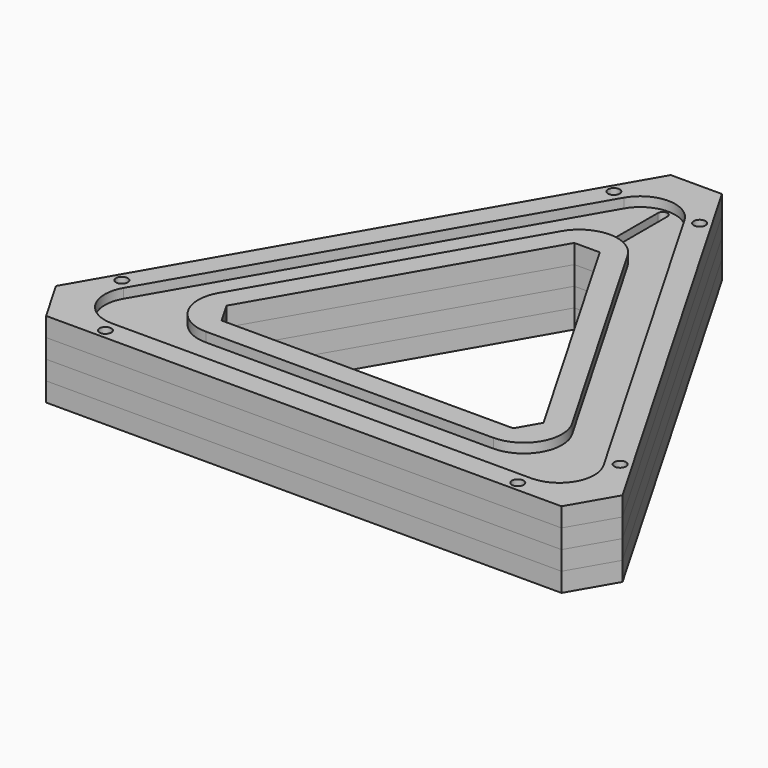
from build123d import *

# Parameters (mm, degrees)
BOX_BOTTOM_HALF_1_W     = 180.25254
BOX_BOTTOM_HALF_1_H     = 156.371228
BOX_BOTTOM_HALF_1_DEPTH = 7
BOX_BOTTOM_HALF_0_W     = 180.25254
BOX_BOTTOM_HALF_0_H     = 156.371228
BOX_BOTTOM_HALF_0_DEPTH = 13
PAD_DEPTH               = 24
POCKET_DEPTH            = 3
SKETCH002_W             = 70
SKETCH002_H             = 18.5
POCKET001_DEPTH         = 18
POLARPATTERN_COUNT      = 3
POCKET002_DEPTH         = 6
CHAMFER_SIZE            = 8
FILLET_R                = 13
FILLET001_R             = 11
CHAMFER001_SIZE         = 16.1
FILLET002_R             = 11
FILLET003_R             = 12
POCKET003_DEPTH         = 6
POCKET004_DEPTH         = 18
POCKET005_DEPTH         = 21.001
SKETCH012_R             = 1.85
POCKET011_DEPTH         = 498.049286
POLARPATTERN001_COUNT   = 3
BOX_BOTTOM_HALF_2_W     = 180.25254
BOX_BOTTOM_HALF_2_H     = 156.371228
BOX_BOTTOM_HALF_2_DEPTH = 7


with BuildPart() as box_bottom_half_1_body:
    # box_bottom_half_1 → box_bottom_half_1 (new body)
    with BuildSketch(Plane(origin=(-90.12627, -57.104746, -1), x_dir=(1, 0, 0), z_dir=(0, 0, 1))):
        with Locations((90.12627, 78.185614)):
            Rectangle(BOX_BOTTOM_HALF_1_W, BOX_BOTTOM_HALF_1_H)
    extrude(amount=BOX_BOTTOM_HALF_1_DEPTH)


with BuildPart() as box_bottom_half_0_body:
    # box_bottom_half_0 → box_bottom_half_0 (new body)
    with BuildSketch(Plane(origin=(-90.12627, -57.104746, -1), x_dir=(1, 0, 0), z_dir=(0, 0, 1))):
        with Locations((90.12627, 78.185614)):
            Rectangle(BOX_BOTTOM_HALF_0_W, BOX_BOTTOM_HALF_0_H)
    extrude(amount=BOX_BOTTOM_HALF_0_DEPTH)


with BuildPart() as body:
    # Sketch → Pad (new body)
    with BuildSketch(Plane.XY):
        Polygon((0, 112.209492), (-97.17627, -56.104746), (97.17627, -56.104746), align=None)
        Polygon((0, 62.209492), (-53.875, -31.104746), (53.875, -31.104746), align=None, mode=Mode.SUBTRACT)
    extrude(amount=PAD_DEPTH)

    # Sketch001 (on Face8 of Pad) → Pocket (cut)
    with BuildSketch(Plane.XY.offset(24)):
        Polygon((0, 98.209492), (-85.051915, -49.104746), (85.051915, -49.104746), align=None)
        Polygon((0, 76.209492), (-65.999356, -38.104746), (65.999356, -38.104746), align=None, mode=Mode.SUBTRACT)
    extrude(amount=-POCKET_DEPTH, mode=Mode.SUBTRACT)

    # Sketch002 (on Face4 of Pocket) → Pocket001 (cut)
    with BuildSketch(Plane(origin=(0, 0, 0), x_dir=(1, 0, 0), z_dir=(0, 0, -1))):
        with Locations((0, 43.604746)):
            Rectangle(SKETCH002_W, SKETCH002_H)
    pocket001 = extrude(amount=-POCKET001_DEPTH, mode=Mode.SUBTRACT)

    # PolarPattern: Pocket001 ×3 about axis
    polarpattern_axis = Axis((0, 0, 0), (0, 0, -1))
    for i in range(1, POLARPATTERN_COUNT):
        add(pocket001.rotate(polarpattern_axis, i * 360 / POLARPATTERN_COUNT), mode=Mode.SUBTRACT)

    # Sketch003 (on Face4 of PolarPattern) → Pocket002 (cut)
    with BuildSketch(Plane(origin=(0, 0, 0), x_dir=(1, 0, 0), z_dir=(0, 0, -1))):
        Polygon((0, -100.209492), (86.783965, 50.104746), (-86.783965, 50.104746), align=None)
        Polygon((0, -74.209492), (64.267305, 37.104746), (-64.267305, 37.104746), align=None, mode=Mode.SUBTRACT)
    extrude(amount=-POCKET002_DEPTH, mode=Mode.SUBTRACT)

    # Chamfer
    chamfer_edges = [body.edges().sort_by_distance(p)[0] for p in [
        (-53.875, -31.104746, 12),
        (53.875, -31.104746, 12),
        (0, 62.209492, 12),
    ]]
    chamfer(chamfer_edges, length=CHAMFER_SIZE)

    # Fillet
    fillet_edges = [body.edges().sort_by_distance(p)[0] for p in [
        (0, 100.209492, 3),
        (-86.783965, -50.104746, 3),
        (86.783965, -50.104746, 3),
    ]]
    fillet(fillet_edges, radius=FILLET_R)

    # Fillet001
    fillet001_edges = [body.edges().sort_by_distance(p)[0] for p in [
        (0, 74.209492, 3),
        (64.267305, -37.104746, 3),
        (-64.267305, -37.104746, 3),
    ]]
    fillet(fillet001_edges, radius=FILLET001_R)

    # Chamfer001
    chamfer001_edges = [body.edges().sort_by_distance(p)[0] for p in [
        (97.17627, -56.104746, 12),
        (0, 112.209492, 12),
        (-97.17627, -56.104746, 12),
    ]]
    chamfer(chamfer001_edges, length=CHAMFER001_SIZE)

    # Fillet002
    fillet002_edges = [body.edges().sort_by_distance(p)[0] for p in [
        (0, 98.209492, 22.5),
        (-85.051915, -49.104746, 22.5),
        (85.051915, -49.104746, 22.5),
    ]]
    fillet(fillet002_edges, radius=FILLET002_R)

    # Fillet003
    fillet003_edges = [body.edges().sort_by_distance(p)[0] for p in [
        (65.999356, -38.104746, 22.5),
        (0, 76.209492, 22.5),
        (-65.999356, -38.104746, 22.5),
    ]]
    fillet(fillet003_edges, radius=FILLET003_R)

    # Sketch004 (on Face60 of Fillet003) → Pocket003 (cut)
    with BuildSketch(Plane(origin=(0, 0, 6), x_dir=(1, 0, 0), z_dir=(0, 0, -1))):
        Polygon((-8.75, -71.266483), (8.75, -71.266483), (8.75, -94.766483), (4, -94.766483), (4, -98.266483), (-4, -98.266483), (-4, -94.766483), (-8.75, -94.766483), align=None)
    extrude(amount=-POCKET003_DEPTH, mode=Mode.SUBTRACT)

    # Sketch005 (on Face29 of Pocket003) → Pocket004 (cut)
    with BuildSketch(Plane(origin=(0, 0, 0), x_dir=(1, 0, 0), z_dir=(0, 0, -1))):
        Polygon((46.171599, 38.954746), (68.688259, 51.954746), (79.338259, 33.508405), (56.821599, 20.508405), align=None)
    extrude(amount=-POCKET004_DEPTH, mode=Mode.SUBTRACT)

    # Sketch006 (on Face1 of Pocket004) → Pocket005 (cut, through all)
    with BuildSketch(Plane.XY.offset(21)):
        with BuildLine():
            ThreePointArc((1.5, 85.040452), (0, 86.540452), (-1.5, 85.040452))
            Line((-1.5, 85.040452), (-1.5, 66.040452))
            ThreePointArc((-1.5, 66.040452), (0, 64.540452), (1.5, 66.040452))
            Line((1.5, 85.040452), (1.5, 66.040452))
        make_face()
    extrude(amount=-POCKET005_DEPTH, mode=Mode.SUBTRACT)

    # Sketch012 → Pocket011 (cut, through all)
    with BuildSketch(Plane(origin=(0, 0, 0), x_dir=(1, 0, 0), z_dir=(0, 0, -1))):
        with Locations((-13.5, -82.703211)):
            Circle(SKETCH012_R)
        with Locations((13.5, -82.703211)):
            Circle(SKETCH012_R)
    pocket011 = extrude(amount=-POCKET011_DEPTH, mode=Mode.SUBTRACT)

    # PolarPattern001: Pocket011 ×3 about axis
    polarpattern001_axis = Axis((0, 0, 0), (0, 0, -1))
    for i in range(1, POLARPATTERN001_COUNT):
        add(pocket011.rotate(polarpattern001_axis, i * 360 / POLARPATTERN001_COUNT), mode=Mode.SUBTRACT)


with BuildPart() as bottom_half_0_body:
    # bottom_half_0 base: copy of Body
    add(body.part)

    # bottom_half_0: intersect box_bottom_half_0 body
    add(box_bottom_half_0_body.part, mode=Mode.INTERSECT)


with BuildPart() as bottom_half_1_body:
    # bottom_half_1 base: copy of bottom_half_0 body
    add(bottom_half_0_body.part)

    # bottom_half_1: intersect box_bottom_half_1 body
    add(box_bottom_half_1_body.part, mode=Mode.INTERSECT)


with BuildPart() as top_half_1_body:
    # top_half_1 base: copy of bottom_half_0 body
    add(bottom_half_0_body.part)

    # top_half_1: cut box_bottom_half_1 body
    add(box_bottom_half_1_body.part, mode=Mode.SUBTRACT)


with BuildPart() as box_bottom_half_2_body:
    # box_bottom_half_2 → box_bottom_half_2 (new body)
    with BuildSketch(Plane(origin=(-90.12627, -57.104746, 11), x_dir=(1, 0, 0), z_dir=(0, 0, 1))):
        with Locations((90.12627, 78.185614)):
            Rectangle(BOX_BOTTOM_HALF_2_W, BOX_BOTTOM_HALF_2_H)
    extrude(amount=BOX_BOTTOM_HALF_2_DEPTH)


with BuildPart() as top_half_0_body:
    # top_half_0 base: copy of Body
    add(body.part)

    # top_half_0: cut box_bottom_half_0 body
    add(box_bottom_half_0_body.part, mode=Mode.SUBTRACT)


with BuildPart() as bottom_half_2_body:
    # bottom_half_2 base: copy of top_half_0 body
    add(top_half_0_body.part)

    # bottom_half_2: intersect box_bottom_half_2 body
    add(box_bottom_half_2_body.part, mode=Mode.INTERSECT)


with BuildPart() as top_half_2_body:
    # top_half_2 base: copy of top_half_0 body
    add(top_half_0_body.part)

    # top_half_2: cut box_bottom_half_2 body
    add(box_bottom_half_2_body.part, mode=Mode.SUBTRACT)


solid = Compound([bottom_half_1_body.part, top_half_1_body.part, bottom_half_2_body.part, top_half_2_body.part])
